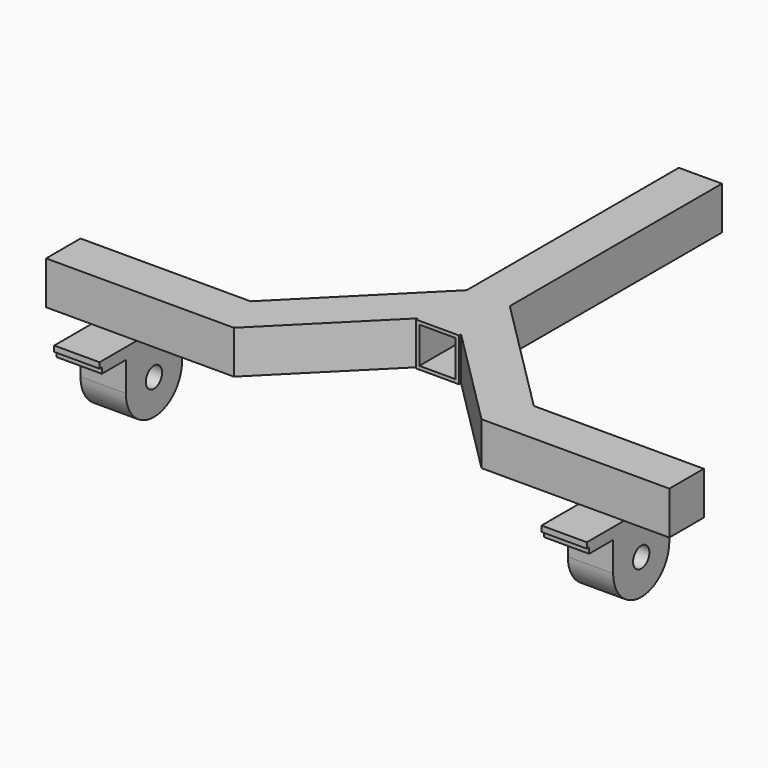
from build123d import *

# Parameters (mm, degrees)
F1_DEPTH = 38
F2_W     = 32
F2_H     = 32
F3_DEPTH = 290.001
F4_W     = 40
F4_H     = 120
F5_DEPTH = 5
F6_R     = 9
F7_DEPTH = 40
F8_R     = 9
F9_DEPTH = 40


with BuildPart() as f1:
    # F0 (on Top) → F1 (new body)
    with BuildSketch(Plane.XY):
        Polygon((-275, 19), (-275, -19), (-109.259885, -19), (-19, 71.259885), (-19, 69), (19, 69), (19, 71.259885), (109.259885, -19), (275, -19), (275, 19), (125, 19), (19, 125), (19, 359), (-19, 359), (-19, 125), (-125, 19), align=None)
    extrude(amount=F1_DEPTH)

    # F2 (on face) → F3 (cut, through all)
    with BuildSketch(Plane.XZ.offset(-69)):
        with Locations((0, 19)):
            Rectangle(F2_W, F2_H)
    extrude(amount=-F3_DEPTH, mode=Mode.SUBTRACT)

    # F4 (on face) → F5 (join)
    with BuildSketch(Plane(origin=(0, 0, 0), x_dir=(1, 0, 0), z_dir=(0, 0, -1))):
        with Locations((-215, 0)):
            Rectangle(F4_W, F4_H)
        with Locations((215, 0)):
            Rectangle(F4_W, F4_H)
    extrude(amount=F5_DEPTH)

    # F6 (on face) → F7 (join)
    with BuildSketch(Plane(origin=(-235, 0, 0), x_dir=(0, -1, 0), z_dir=(-1, 0, 0))):
        with BuildLine():
            Line((-31, -10), (-31, -36))
            ThreePointArc((-31, -36), (0, -67), (31, -36))
            Line((31, -36), (31, -10))
            Line((31, -10), (57.5, -10))
            Line((57.5, -10), (57.5, -5))
            Line((57.5, -5), (-57.5, -5))
            Line((-57.5, -5), (-57.5, -10))
            Line((-57.5, -10), (-31, -10))
        make_face()
        with Locations((0, -36)):
            Circle(F6_R, mode=Mode.SUBTRACT)
    extrude(amount=-F7_DEPTH)

    # F8 (on face) → F9 (join)
    with BuildSketch(Plane.YZ.offset(235)):
        with BuildLine():
            Line((-31, -10), (-31, -36))
            ThreePointArc((-31, -36), (0, -67), (31, -36))
            Line((31, -36), (31, -10))
            Line((31, -10), (57.5, -10))
            Line((57.5, -10), (57.5, -5))
            Line((57.5, -5), (-57.5, -5))
            Line((-57.5, -5), (-57.5, -10))
            Line((-57.5, -10), (-31, -10))
        make_face()
        with Locations((0, -36)):
            Circle(F8_R, mode=Mode.SUBTRACT)
    extrude(amount=-F9_DEPTH)


solid = f1.part
